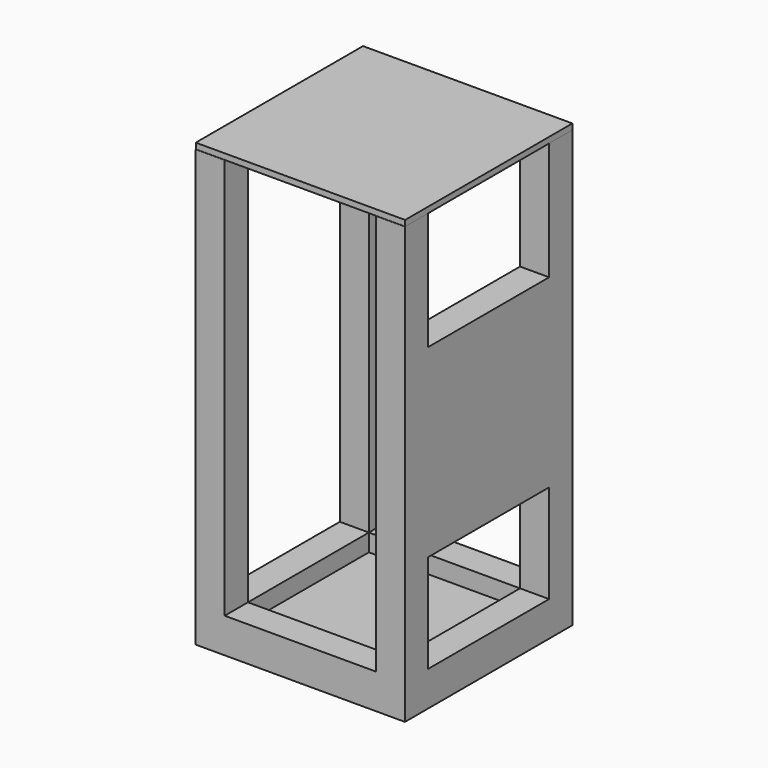
from build123d import *

# Parameters (mm, degrees)
F0_W      = 914.4
F0_H      = 914.4
F1_DEPTH  = 76.2
F2_W      = 127
F2_H      = 127
F3_DEPTH  = 1828.8
F4_W      = 914.697899
F4_H      = 913.319318
F5_DEPTH  = 25.4
F6_W      = 127
F6_H      = 76.2
F7_DEPTH  = 660.4
F8_W      = 127
F8_H      = 76.2
F9_DEPTH  = 660.4
F10_W     = 127
F10_H     = 76.2
F11_DEPTH = 660.4
F12_W     = 127
F12_H     = 76.2
F13_DEPTH = 660.4
F14_W     = 50.8
F14_H     = 50.8
F15_DEPTH = 63.5
F16_W     = 152.4
F16_H     = 152.4
F16_W_2   = 50.8
F16_H_2   = 50.8
F17_DEPTH = 25.4
F18_W     = 127
F18_H     = 807.987869
F19_DEPTH = 660.4


with BuildPart() as f1:
    # F0 (on Top) → F1 (new body)
    with BuildSketch(Plane.XY):
        with Locations((-22.716756, -11.820506)):
            Rectangle(F0_W, F0_H)
    extrude(amount=F1_DEPTH)

    # F2 (on face) → F3 (join)
    with BuildSketch(Plane.XY.offset(76.2)):
        with Locations((-416.416756, 381.879494)):
            Rectangle(F2_W, F2_H)
        with Locations((370.983244, 381.879494)):
            Rectangle(F2_W, F2_H)
        with Locations((370.983244, -405.520506)):
            Rectangle(F2_W, F2_H)
        with Locations((-416.416756, -405.520506)):
            Rectangle(F2_W, F2_H)
    extrude(amount=F3_DEPTH)

    # F4 (on face) → F5 (join)
    with BuildSketch(Plane.XY.offset(1905)):
        with Locations((-22.865706, -11.280165)):
            Rectangle(F4_W, F4_H)
    extrude(amount=F5_DEPTH)

    # F6 (on face) → F7 (join)
    with BuildSketch(Plane.XZ.offset(-318.379494)):
        with Locations((-416.416756, 114.3)):
            Rectangle(F6_W, F6_H)
    extrude(amount=F7_DEPTH)

    # F8 (on face) → F9 (join)
    with BuildSketch(Plane.YZ.offset(-352.916756)):
        with Locations((-405.520506, 114.3)):
            Rectangle(F8_W, F8_H)
    extrude(amount=F9_DEPTH)

    # F10 (on face) → F11 (join)
    with BuildSketch(Plane(origin=(0, -342.020506, 0), x_dir=(-1, 0, 0), z_dir=(0, 1, 0))):
        with Locations((-370.983244, 114.3)):
            Rectangle(F10_W, F10_H)
    extrude(amount=F11_DEPTH)

    # F12 (on face) → F13 (join)
    with BuildSketch(Plane(origin=(307.483244, 0, 0), x_dir=(0, -1, 0), z_dir=(-1, 0, 0))):
        with Locations((-381.879494, 114.3)):
            Rectangle(F12_W, F12_H)
    extrude(amount=F13_DEPTH)

    # F14 (on face) → F15 (join)
    with BuildSketch(Plane(origin=(0, 0, 1905), x_dir=(1, 0, 0), z_dir=(0, 0, -1))):
        with Locations((-22.716756, 25.4)):
            Rectangle(F14_W, F14_H)
    extrude(amount=F15_DEPTH)

    # F16 (on face) → F17 (join)
    with BuildSketch(Plane(origin=(0, 0, 1841.5), x_dir=(1, 0, 0), z_dir=(0, 0, -1))):
        with Locations((-29.767435, 29.231025)):
            Rectangle(F16_W, F16_H)
        with Locations((-22.716756, 25.4)):
            Rectangle(F16_W_2, F16_H_2, mode=Mode.SUBTRACT)
    extrude(amount=-F17_DEPTH)

    # F18 (on face) → F19 (join)
    with BuildSketch(Plane.XZ.offset(-318.379494)):
        with Locations((370.983244, 986.209064)):
            Rectangle(F18_W, F18_H)
    extrude(amount=F19_DEPTH)


solid = f1.part
